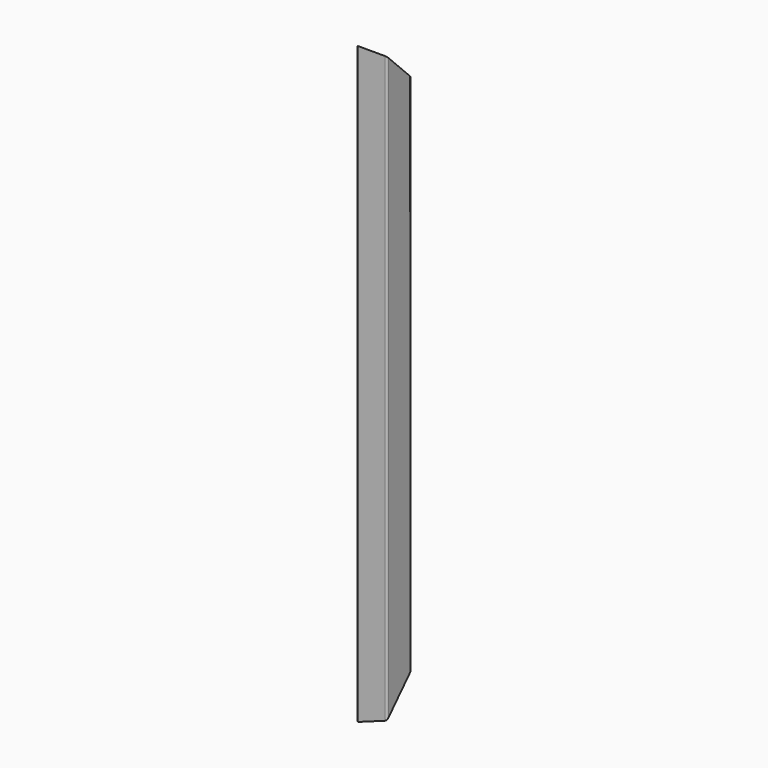
from build123d import *

# Parameters (mm, degrees)
F0_W          = 44.45
F0_H          = 44.45
F1_DEPTH      = 1003.3
F3_DEPTH      = 50.801
F5_DEPTH      = 50.801
F7_W          = 181.430888
F7_H          = 203.2
F8_DEPTH      = 50.8
F8_DEPTH_BACK = 6.35


with BuildPart() as f1:
    # F0 (on Top) → F1 (new body)
    with BuildSketch(Plane.XY):
        with BuildLine():
            ThreePointArc((25.4, 22.225), (24.470064, 24.470064), (22.225, 25.4))
            Line((22.225, 25.4), (-22.225, 25.4))
            ThreePointArc((-22.225, 25.4), (-24.470064, 24.470064), (-25.4, 22.225))
            Line((-25.4, 22.225), (-25.4, -22.225))
            ThreePointArc((-25.4, -22.225), (-24.470064, -24.470064), (-22.225, -25.4))
            Line((-22.225, -25.4), (22.225, -25.4))
            ThreePointArc((22.225, -25.4), (24.470064, -24.470064), (25.4, -22.225))
            Line((25.4, -22.225), (25.4, 22.225))
        make_face()
        Rectangle(F0_W, F0_H, mode=Mode.SUBTRACT)
    extrude(amount=F1_DEPTH)

    # F2 (on face) → F3 (cut, through all)
    with BuildSketch(Plane.YZ.offset(25.4)):
        Polygon((25.4, 1003.3), (-25.4, 1003.3), (25.4, 952.5), align=None)
    extrude(amount=-F3_DEPTH, mode=Mode.SUBTRACT)

    # F4 (on face) → F5 (cut, through all)
    with BuildSketch(Plane.XZ.offset(25.4)):
        Polygon((-25.4, 0), (25.4, 0), (25.4, 18.489688), align=None)
    extrude(amount=-F5_DEPTH, mode=Mode.SUBTRACT)

    # F7 (on face) → F8 (cut, two sides)
    with BuildSketch(Plane(origin=(-5.286317, -15.456156, 14.524036), x_dir=(-0.970315, 0.176242, -0.165613), z_dir=(0.241845, 0.707107, -0.664463))) as f8_sk:
        with Locations((-6.846333, -13.58029)):
            Rectangle(F7_W, F7_H)
    extrude(amount=F8_DEPTH, mode=Mode.SUBTRACT)
    extrude(f8_sk.sketch, amount=-F8_DEPTH_BACK, mode=Mode.SUBTRACT)


solid = f1.part
